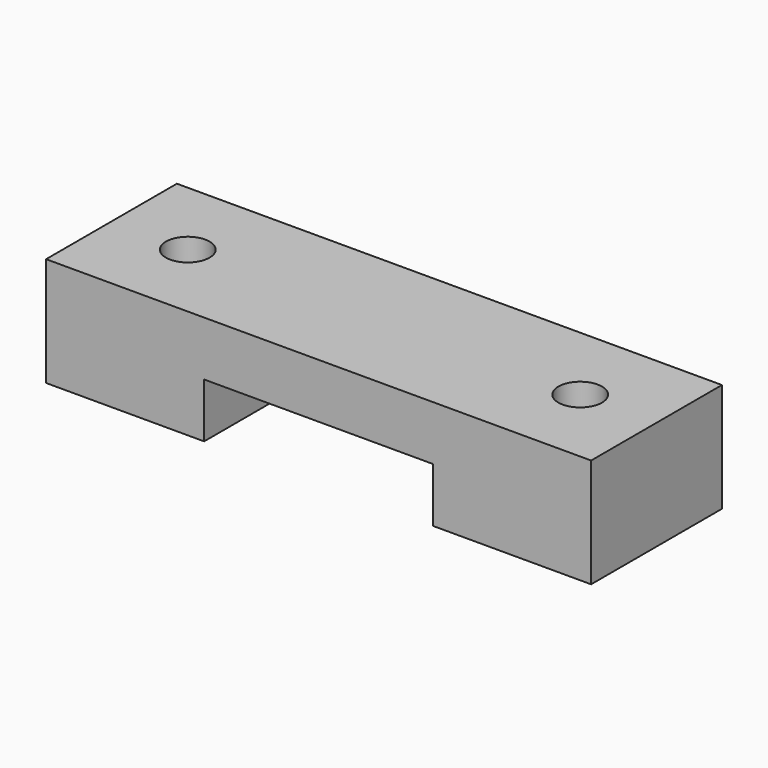
from build123d import *

# Parameters (mm, degrees)
F1_DEPTH = 15
F2_R     = 2
F3_DEPTH = 25


with BuildPart() as f1:
    # F0 (on Front) → F1 (new body)
    with BuildSketch(Plane.XZ):
        Polygon((25, 0), (-25, 0), (-25, -10), (-10.5, -10), (-10.5, -5), (10.5, -5), (10.5, -10), (25, -10), align=None)
    extrude(amount=F1_DEPTH)

    # F2 (on Top) → F3 (cut)
    with BuildSketch(Plane.XY):
        with Locations((-18, -7.5)):
            Circle(F2_R)
        with Locations((18, -7.5)):
            Circle(F2_R)
    extrude(amount=-F3_DEPTH, mode=Mode.SUBTRACT)


solid = f1.part
